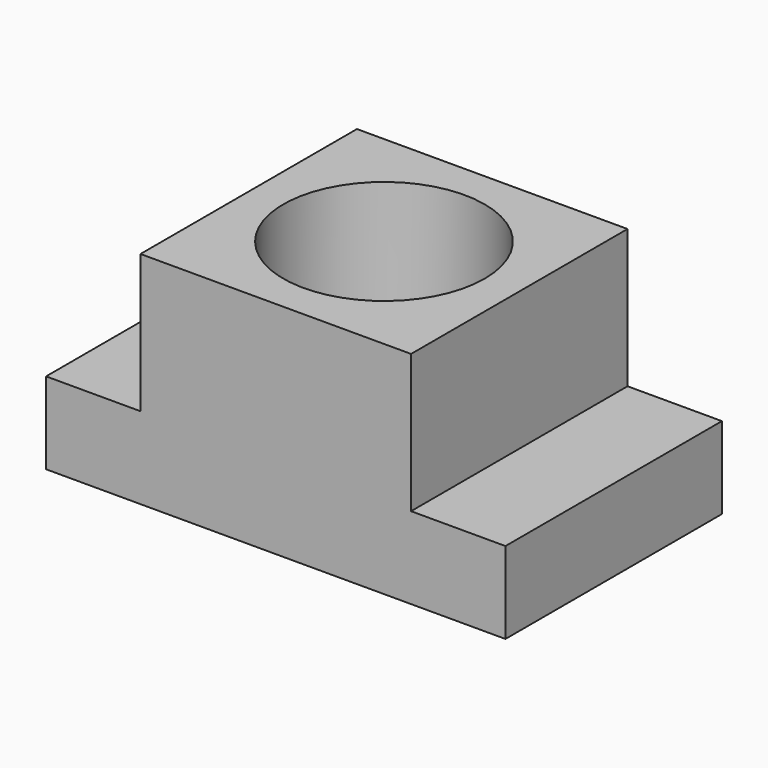
from build123d import *

# Parameters (mm, degrees)
SKETCH_W     = 14.6
SKETCH_H     = 8.6
SKETCH_R     = 3.2
PAD_DEPTH    = 2.6
SKETCH001_W  = 8.6
SKETCH001_H  = 8.6
SKETCH001_R  = 3.2
PAD001_DEPTH = 4.4


with BuildPart() as part:
    # Sketch → Pad (new body)
    with BuildSketch(Plane.XY):
        Rectangle(SKETCH_W, SKETCH_H)
        Circle(SKETCH_R, mode=Mode.SUBTRACT)
    extrude(amount=PAD_DEPTH)

    # Sketch001 (on Face7 of Pad) → Pad001 (join)
    with BuildSketch(Plane.XY.offset(2.6)):
        Rectangle(SKETCH001_W, SKETCH001_H)
        Circle(SKETCH001_R, mode=Mode.SUBTRACT)
    extrude(amount=PAD001_DEPTH)


solid = part.part
